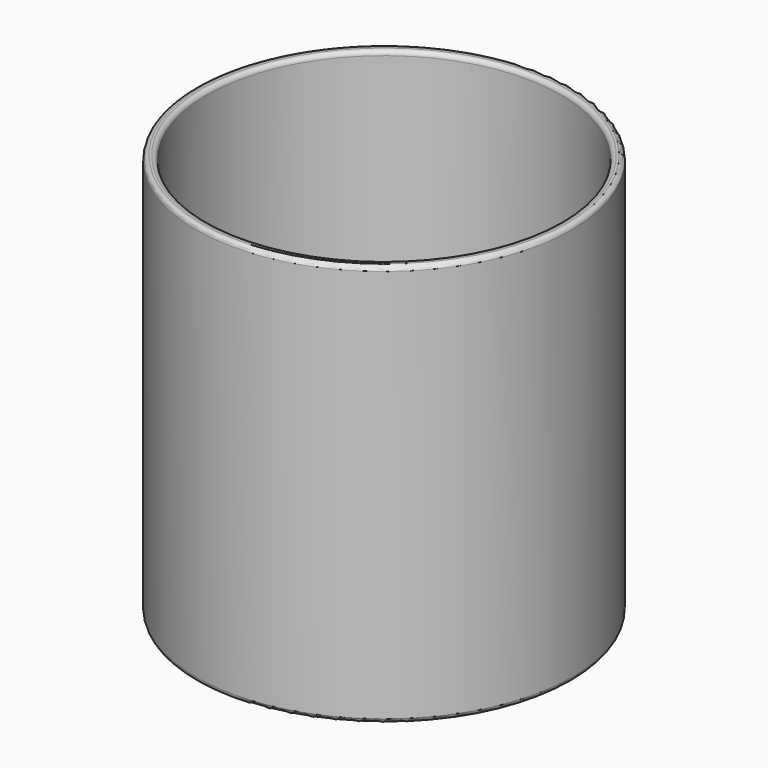
from build123d import *

# Parameters (mm, degrees)
F0_R     = 42.5
F1_DEPTH = 91
F5_T     = -2.5
F6_R     = 1


with BuildPart() as f1:
    # F0 (on Top) → F1 (new body)
    with BuildSketch(Plane.XY):
        Circle(F0_R)
    extrude(amount=F1_DEPTH)

    # F5
    f5_openings = [f1.faces().sort_by_distance(p)[0] for p in [
        (0, 0, 91),
    ]]
    offset(amount=F5_T, openings=f5_openings)

    # F6
    f6_edges = [f1.edges().sort_by_distance(p)[0] for p in [
        (-40, 0, 2.5),
        (42.5, 0, 45.5),
        (-42.5, 0, 0),
        (-42.5, 0, 91),
        (40, 0, 46.75),
        (-40, 0, 91),
    ]]
    fillet(f6_edges, radius=F6_R)


solid = f1.part
